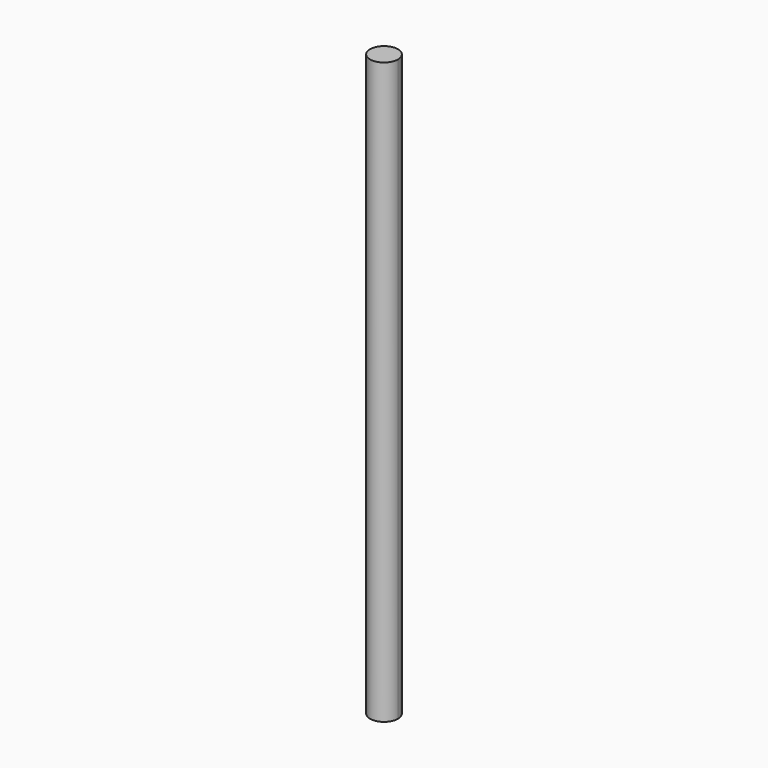
from build123d import *

# Parameters (mm, degrees)
F1_DEPTH = 63.5


with BuildPart() as f1:
    # F0 (on Top) → F1 (new body)
    with BuildSketch(Plane.XY):
        with BuildLine():
            ThreePointArc((0, 1.524), (-1.077631, -1.077631), (1.524, 0))
            ThreePointArc((1.524, 0), (1.077631, 1.077631), (0, 1.524))
        make_face()
    extrude(amount=F1_DEPTH)


solid = f1.part
